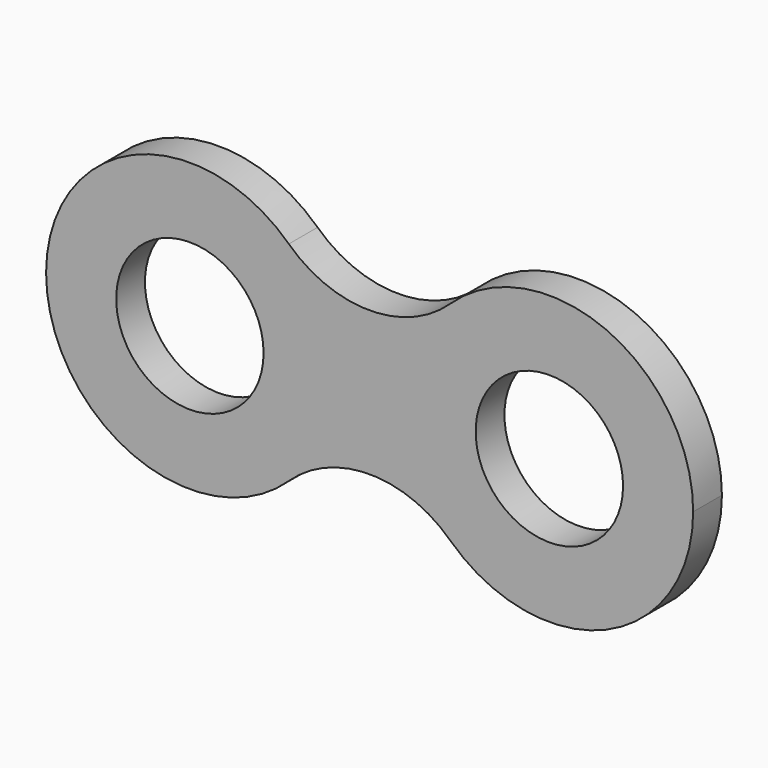
from build123d import *

# Parameters (mm, degrees)
F0_R     = 2.6035
F1_DEPTH = 1.27


with BuildPart() as f1:
    # F0 (on Front) → F1 (new body)
    with BuildSketch(Plane.XZ):
        with BuildLine():
            ThreePointArc((11.43, 0), (8.355805, 4.667242), (2.853959, 3.685661))
            ThreePointArc((2.853959, 3.685661), (1.27, 0), (2.853959, -3.685661))
            ThreePointArc((2.853959, -3.685661), (8.355805, -4.667242), (11.43, 0))
        make_face()
        with Locations((6.35, 0)):
            Circle(F0_R, mode=Mode.SUBTRACT)
        with BuildLine():
            ThreePointArc((-2.853959, -3.685661), (-1.682758, -2.005805), (-1.27, 0))
            ThreePointArc((-1.27, 0), (-1.682758, 2.005805), (-2.853959, 3.685661))
            ThreePointArc((-2.853959, 3.685661), (-11.43, 0), (-2.853959, -3.685661))
        make_face()
        with Locations((-6.35, 0)):
            Circle(F0_R, mode=Mode.SUBTRACT)
        with BuildLine():
            ThreePointArc((-2.853959, 3.685661), (-1.682758, 2.005805), (-1.27, 0))
            ThreePointArc((-1.27, 0), (-1.682758, -2.005805), (-2.853959, -3.685661))
            ThreePointArc((-2.853959, -3.685661), (0, -2.547406), (2.853959, -3.685661))
            ThreePointArc((2.853959, -3.685661), (1.27, 0), (2.853959, 3.685661))
            ThreePointArc((2.853959, 3.685661), (0, 2.547406), (-2.853959, 3.685661))
        make_face()
    extrude(amount=F1_DEPTH)


solid = f1.part
